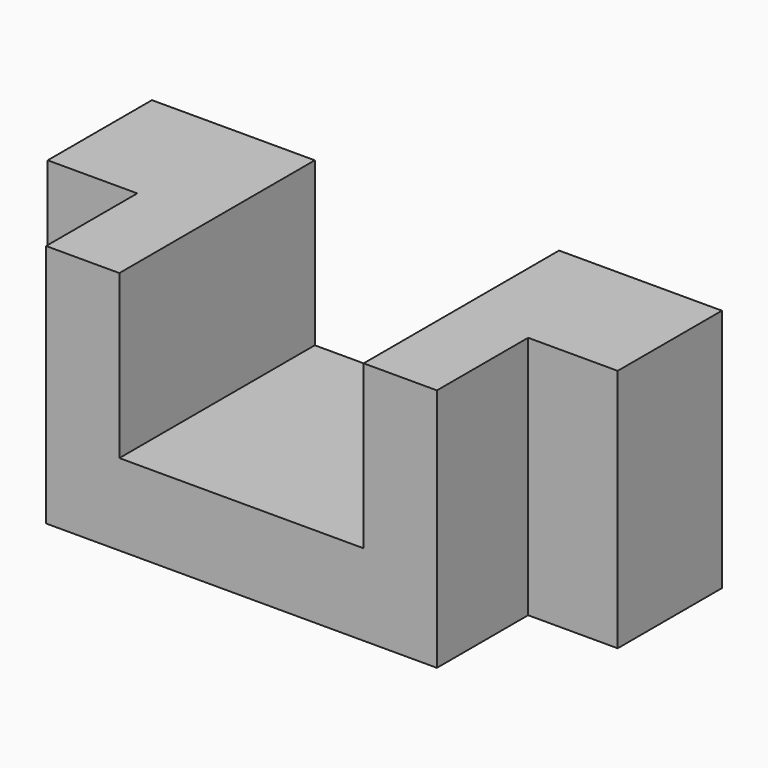
from build123d import *

# Parameters (mm, degrees)
F1_DEPTH = 30
F0_W     = 11
F0_H     = 30
F2_DEPTH = 16


with BuildPart() as f1:
    # F0 (on Front) → F1 (new body)
    with BuildSketch(Plane.XZ):
        Polygon((-24, 15), (-24, -15), (24, -15), (24, 15), (15, 15), (15, -5), (-15, -5), (-15, 15), align=None)
    extrude(amount=F1_DEPTH)

    # F0 (on Front) → F2 (join)
    with BuildSketch(Plane.XZ):
        with Locations((-29.5, 0)):
            Rectangle(F0_W, F0_H)
        with Locations((29.5, 0)):
            Rectangle(F0_W, F0_H)
    extrude(amount=F2_DEPTH)


solid = f1.part
